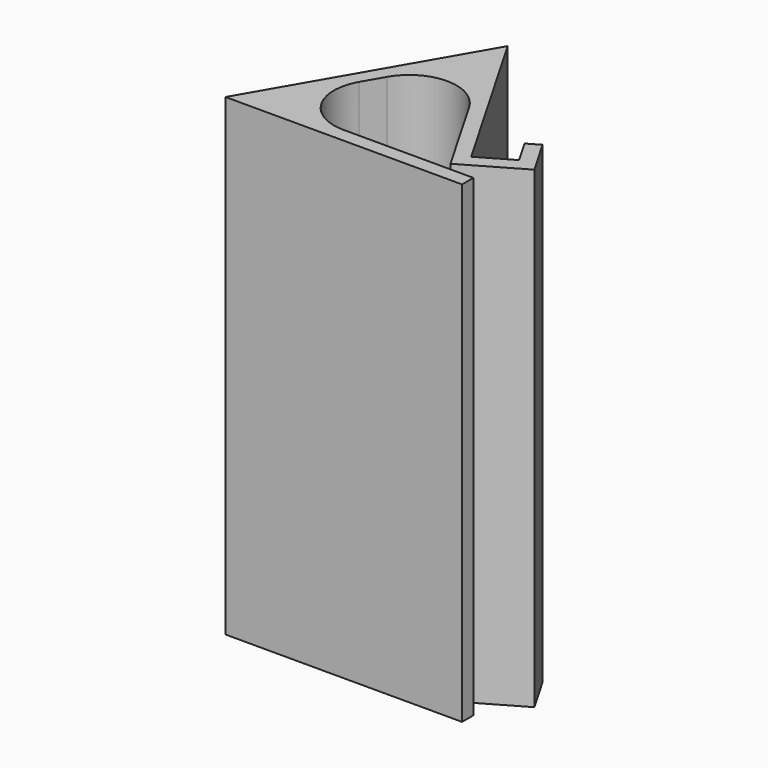
from build123d import *

# Parameters (mm, degrees)
PAD_DEPTH = 100


with BuildPart() as part:
    # Sketch → Pad (new body)
    with BuildSketch(Plane.XY):
        with BuildLine():
            Line((50, 0), (0, 0))
            Line((0, 0), (25, 43.30127))
            Line((25, 43.30127), (45, 8.660254))
            Line((45, 8.660254), (51.928203, 12.660254))
            Line((51.928203, 12.660254), (48.928203, 17.856406))
            Line((48.928203, 17.856406), (51.526279, 19.356406))
            Line((51.526279, 19.356406), (56.026279, 11.562178))
            Line((56.026279, 11.562178), (43.901924, 4.562178))
            Line((33.660254, 22.30127), (43.901924, 4.562178))
            ThreePointArc((33.660254, 22.30127), (25, 27.30127), (16.339746, 22.30127))
            Line((13.856406, 18), (16.339746, 22.30127))
            ThreePointArc((13.856406, 18), (13.856406, 8), (22.51666, 3))
            Line((22.51666, 3), (50, 3))
            Line((50, 3), (50, 0))
        make_face()
    extrude(amount=PAD_DEPTH)


solid = part.part
